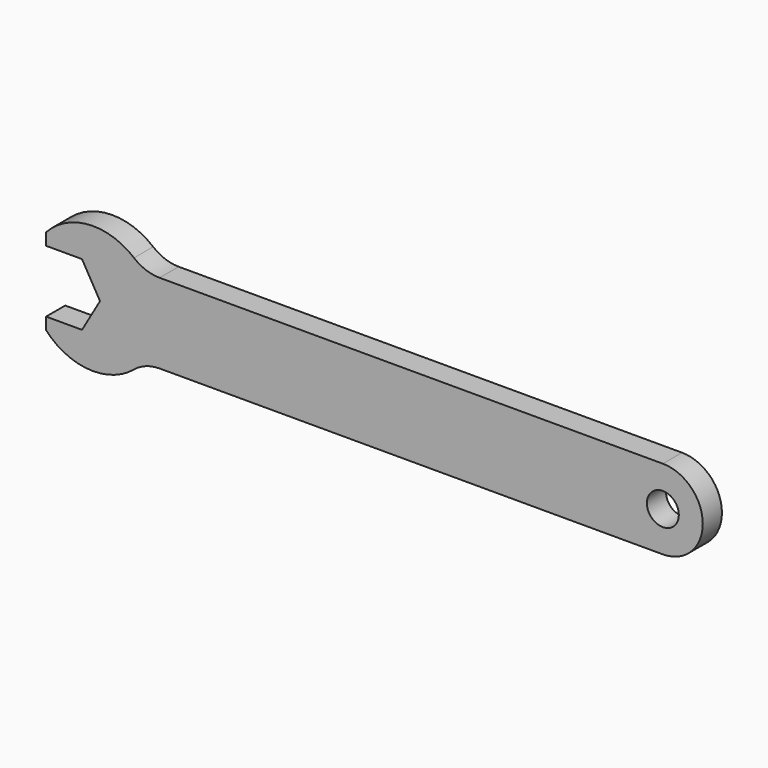
from build123d import *

# Parameters (mm, degrees)
F0_R     = 2
F1_DEPTH = 3


with BuildPart() as f1:
    # F0 (on Front) → F1 (new body)
    with BuildSketch(Plane.XZ):
        with BuildLine():
            Line((4.503332, 0), (2.251666, -3.9))
            Line((2.251666, -3.9), (-2.251666, -3.9))
            Line((-2.251666, -3.9), (-2.251666, -5.4))
            ThreePointArc((-2.251666, -5.4), (3.104614, -7.981328), (8.762644, -6.153846))
            ThreePointArc((8.762644, -6.153846), (10.259084, -5.2973), (11.9575, -5))
            Line((11.9575, -5), (75, -5))
            ThreePointArc((75, -5), (80, 0), (75, 5))
            Line((75, 5), (11.9575, 5))
            ThreePointArc((11.9575, 5), (10.259084, 5.2973), (8.762644, 6.153846))
            ThreePointArc((8.762644, 6.153846), (3.104614, 7.981328), (-2.251666, 5.4))
            Line((-2.251666, 5.4), (-2.251666, 3.9))
            Line((-2.251666, 3.9), (2.251666, 3.9))
            Line((2.251666, 3.9), (4.503332, 0))
        make_face()
        with Locations((75, 0)):
            Circle(F0_R, mode=Mode.SUBTRACT)
    extrude(amount=F1_DEPTH)


solid = f1.part
